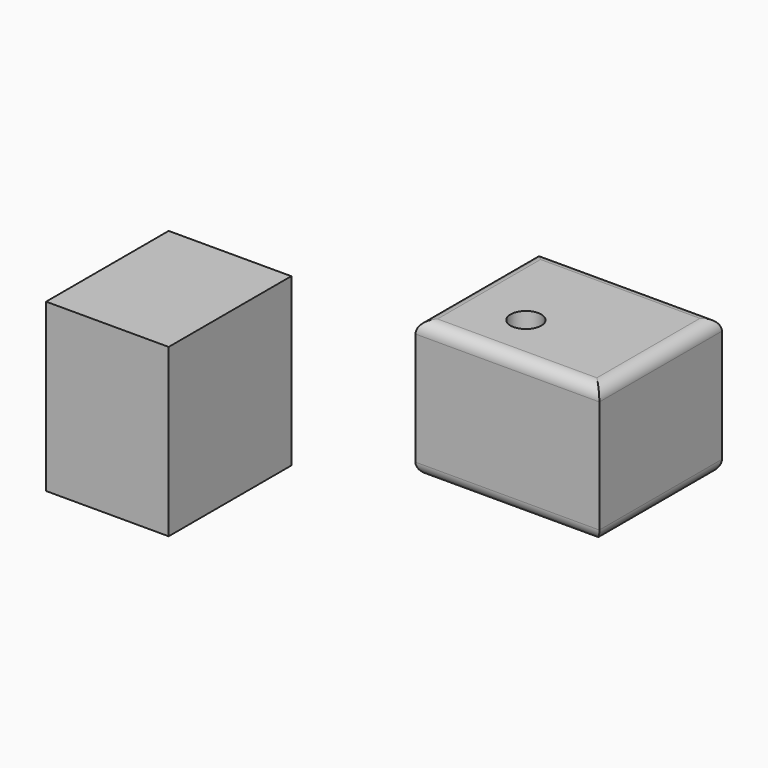
from build123d import *

# Parameters (mm, degrees)
F1_DEPTH = 56.896
F2_R     = 5.08
F4_D     = 12.7
F5_W     = 50.8
F5_H     = 63.5
F6_DEPTH = 69.088


with BuildPart() as f1:
    # F0 (on Top) → F1 (new body)
    with BuildSketch(Plane.XY):
        Polygon((38.1, 31.75), (0, 31.75), (-38.1, 31.75), (-38.1, 0), (-38.1, -31.75), (0, -31.75), (38.1, -31.75), (38.1, 0), align=None)
    extrude(amount=F1_DEPTH)

    # F2
    f2_edges = [f1.edges().sort_by_distance(p)[0] for p in [
        (0, 31.75, 56.896),
        (-38.1, 0, 56.896),
        (0, -31.75, 56.896),
        (38.1, 0, 56.896),
        (0, 31.75, 0),
        (-38.1, 0, 0),
        (0, -31.75, 0),
        (38.1, 0, 0),
    ]]
    fillet(f2_edges, radius=F2_R)

    # F4 (through all)
    with Locations(Plane.XY.offset(56.896)):
        with Locations((-10.218471, -9.376245)):
            Hole(F4_D / 2)


with BuildPart() as f6:
    # F5 (on Top) → F6 (new body)
    with BuildSketch(Plane.XY):
        with Locations((-99.480659, -82.864088)):
            Rectangle(F5_W, F5_H)
    extrude(amount=F6_DEPTH)


solid = Compound([f1.part, f6.part])
